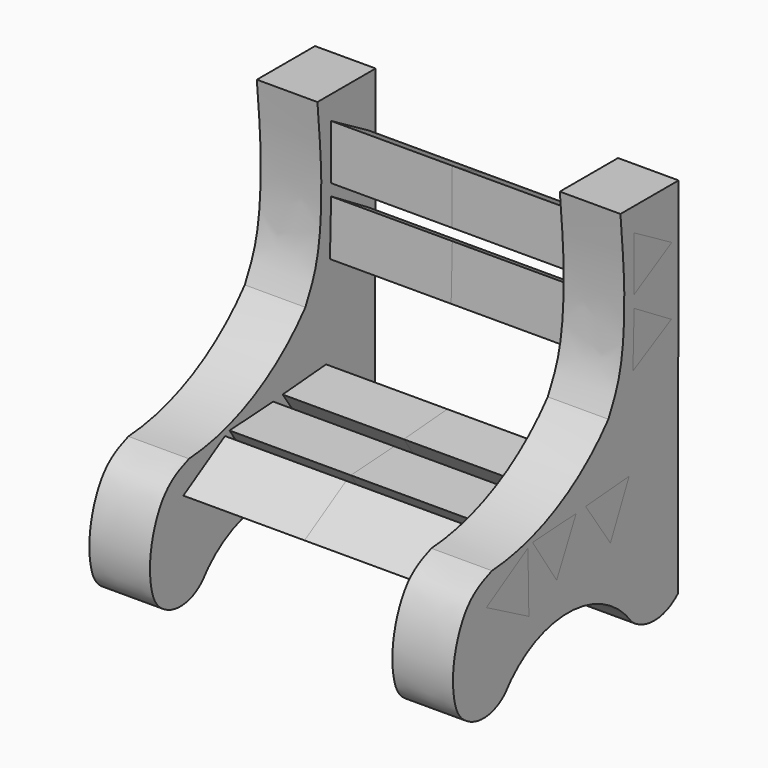
from build123d import *

# Parameters (mm, degrees)
F3_DEPTH = 38.1
F4_DEPTH = 12.7


with BuildPart() as f3:
    # F1 (on face) → F3 (new body)
    with BuildSketch(Plane.YZ):
        Polygon((26.4932508283, 24.0903730023), (26.4247749001, 12.6603730023), (36.3576832294, 18.3160711089), align=None)
    extrude(amount=F3_DEPTH)


with BuildPart() as f3b:
    # F1 (on face) → F3, piece 2 (new body)
    with BuildSketch(Plane.YZ):
        Polygon((36.2513714214, 4.1811371174), (26.5050424251, 10.1600001085), (26.2003596872, -1.2699998915), align=None)
    extrude(amount=F3_DEPTH)


with BuildPart() as f3c:
    # F2 (on face) → F3, piece 3 (new body)
    with BuildSketch(Plane.YZ):
        Polygon((25.1961359321, -20.2973962285), (13.8036624626, -21.2253710115), (20.3035489335, -30.6275550566), align=None)
    extrude(amount=F3_DEPTH)


with BuildPart() as f3d:
    # F2 (on face) → F3, piece 4 (new body)
    with BuildSketch(Plane.YZ):
        Polygon((6.2131369486, -31.7535884678), (11.3198000183, -21.5232549511), (-0.0932602313, -22.2159217626), align=None)
    extrude(amount=F3_DEPTH)


with BuildPart() as f3e:
    # F2 (on face) → F3, piece 5 (new body)
    with BuildSketch(Plane.YZ):
        Polygon((-1.3037063213, -22.7486744347), (-12.1983075514, -29.3146669865), (-1.0646905855, -35.46667214), align=None)
    extrude(amount=F3_DEPTH)


with BuildPart() as f4:
    # F0 (on Right) → F4 (new body)
    with BuildSketch(Plane.YZ):
        with BuildLine():
            ThreePointArc((-7.3567183398, -47.2232625549), (9.3334213139, -38.9590697867), (25.9034133322, -47.4615993096))
            ThreePointArc((25.9034133322, -47.4615993096), (31.9787992781, -49.6093052248), (37.9450854506, -47.1748885802))
            add(Edge.make_bspline(
                [(38.1623610982, 29.0251114198), (38.0467636502, 3.6251114198), (38.0606828985, -21.7748885802), (37.9450854506, -47.1748885802)],
                knots=[0, 0, 0, 0, 76.2003097678, 76.2003097678, 76.2003097678, 76.2003097678], degree=3))
            add(Edge.make_bspline(
                [(22.9223610982, 29.0251114198), (28.0455333303, 29.0251114198), (33.0391888661, 29.0251114198), (38.1623610982, 29.0251114198)],
                knots=[0, 0, 0, 0, 15.24, 15.24, 15.24, 15.24], degree=3))
            add(Edge.make_bspline(
                [(19.7659601793, -7.5638759529), (20.8297706654, -5.4837352038), (23.3169474769, -0.6203898018), (24.3780430145, 13.0115869391), (23.4244826142, 23.5014217326), (22.9223610982, 29.0251114198)],
                knots=[0, 0, 0, 0, 0.2613564606, 0.6110484311, 1, 1, 1, 1], degree=3))
            ThreePointArc((19.7659601793, -7.5638759529), (6.1250709832, -18.4928822007), (-10.7319852748, -23.1142120897))
            add(Edge.make_bspline(
                [(-10.7319852748, -23.1142120897), (-11.812883555, -23.5272538733), (-14.1877120248, -24.4347429542), (-18.4346007939, -27.7558327017), (-21.6878193154, -37.2574657437), (-20.3743791224, -45.2306316491), (-19.0021176056, -46.7393504707), (-18.5071533432, -47.2835338422)],
                knots=[0, 0, 0, 0, 0.1615304902, 0.3548966761, 0.6263135245, 0.8652141385, 1, 1, 1, 1], degree=3))
            ThreePointArc((-18.5071533432, -47.2835338422), (-12.9200551204, -49.4513802656), (-7.3567183398, -47.2232625549))
        make_face()
    extrude(amount=F4_DEPTH)


with BuildPart() as f5_1:
    # F5: instance of F4
    add(f4.part.mirror(Plane(origin=(38.1, 29.7585696526, 18.3556057045), x_dir=(0, 1, 0), z_dir=(1, 0, 0))))


with BuildPart() as f5_2:
    # F5: instance of F3
    add(f3.part.mirror(Plane(origin=(38.1, 29.7585696526, 18.3556057045), x_dir=(0, 1, 0), z_dir=(1, 0, 0))))


with BuildPart() as f5_3:
    # F5: instance of F3b
    add(f3b.part.mirror(Plane(origin=(38.1, 29.7585696526, 18.3556057045), x_dir=(0, 1, 0), z_dir=(1, 0, 0))))


with BuildPart() as f5_4:
    # F5: instance of F3c
    add(f3c.part.mirror(Plane(origin=(38.1, 29.7585696526, 18.3556057045), x_dir=(0, 1, 0), z_dir=(1, 0, 0))))


with BuildPart() as f5_5:
    # F5: instance of F3d
    add(f3d.part.mirror(Plane(origin=(38.1, 29.7585696526, 18.3556057045), x_dir=(0, 1, 0), z_dir=(1, 0, 0))))


with BuildPart() as f5_6:
    # F5: instance of F3e
    add(f3e.part.mirror(Plane(origin=(38.1, 29.7585696526, 18.3556057045), x_dir=(0, 1, 0), z_dir=(1, 0, 0))))


solid = Compound([f3.part, f3b.part, f3c.part, f3d.part, f3e.part, f4.part, f5_1.part, f5_2.part, f5_3.part, f5_4.part, f5_5.part, f5_6.part])
